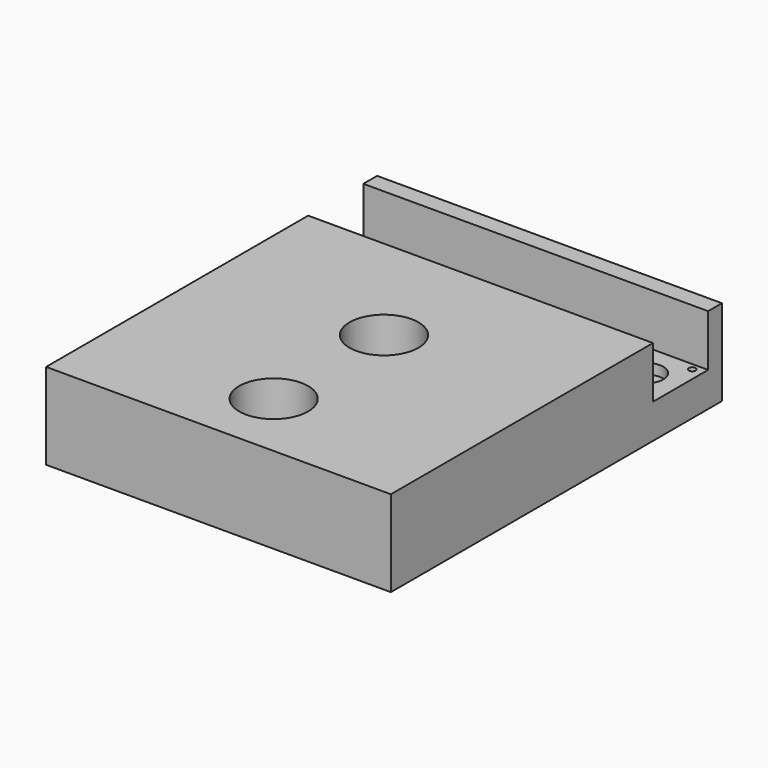
from build123d import *

# Parameters (mm, degrees)
F0_W     = 100
F0_H     = 120
F0_R     = 10
F1_DEPTH = 25
F2_W     = 100
F2_H     = 20
F3_DEPTH = 15
F4_R     = 1
F4_R_2   = 5
F4_R_3   = 0.5
F5_DEPTH = 3
F6_R     = 2
F6_R_2   = 1
F7_DEPTH = 25


with BuildPart() as f1:
    # F0 (on Top) → F1 (new body)
    with BuildSketch(Plane.XY):
        with Locations((-15.155184, 5.342288)):
            Rectangle(F0_W, F0_H)
        with Locations((-15.155184, -34.657712)):
            Circle(F0_R, mode=Mode.SUBTRACT)
        with Locations((-15.155184, 5.342288)):
            Circle(F0_R, mode=Mode.SUBTRACT)
    extrude(amount=F1_DEPTH)

    # F2 (on face) → F3 (cut)
    with BuildSketch(Plane.XY.offset(25)):
        with Locations((-15.155184, 50.342288)):
            Rectangle(F2_W, F2_H)
    extrude(amount=-F3_DEPTH, mode=Mode.SUBTRACT)

    # F4 (on face) → F5 (cut)
    with BuildSketch(Plane.XY.offset(10)):
        with Locations((-62.155184, 58.342288)):
            Circle(F4_R)
        with Locations((-37.155184, 58.342288)):
            Circle(F4_R)
        with Locations((-55.155184, 50.342288)):
            Circle(F4_R_2)
        with Locations((-45.155184, 50.342288)):
            Circle(F4_R_3)
        with Locations((-35.155184, 30.333549)):
            Circle(F4_R_3)
        with Locations((-62.155184, 42.342288)):
            Circle(F4_R)
        with Locations((-37.155184, 42.342288)):
            Circle(F4_R)
        with Locations((31.844816, 58.342288)):
            Circle(F4_R)
        with Locations((6.844816, 58.342288)):
            Circle(F4_R)
        with Locations((24.844816, 50.342288)):
            Circle(F4_R_2)
        with Locations((31.844816, 42.342288)):
            Circle(F4_R)
        with Locations((6.844816, 42.342288)):
            Circle(F4_R)
        with Locations((14.844816, 50.342288)):
            Circle(F4_R_3)
        with Locations((4.844816, 30.333549)):
            Circle(F4_R_3)
    extrude(amount=-F5_DEPTH, mode=Mode.SUBTRACT)

    # F6 (on face) → F7 (cut)
    with BuildSketch(Plane.XY.offset(10)):
        with Locations((24.844816, 50.342288)):
            Circle(F6_R)
        with Locations((31.844816, 42.342288)):
            Circle(F6_R_2)
        with Locations((31.844816, 58.342288)):
            Circle(F6_R_2)
        with Locations((6.844816, 42.342288)):
            Circle(F6_R_2)
        with Locations((-37.155184, 42.342288)):
            Circle(F6_R_2)
        with Locations((-62.155184, 42.342288)):
            Circle(F6_R_2)
        with Locations((6.844816, 58.342288)):
            Circle(F6_R_2)
        with Locations((-37.155184, 58.342288)):
            Circle(F6_R_2)
        with Locations((-55.155184, 50.342288)):
            Circle(F6_R)
        with Locations((-62.155184, 58.342288)):
            Circle(F6_R_2)
    extrude(amount=-F7_DEPTH, mode=Mode.SUBTRACT)


solid = f1.part
